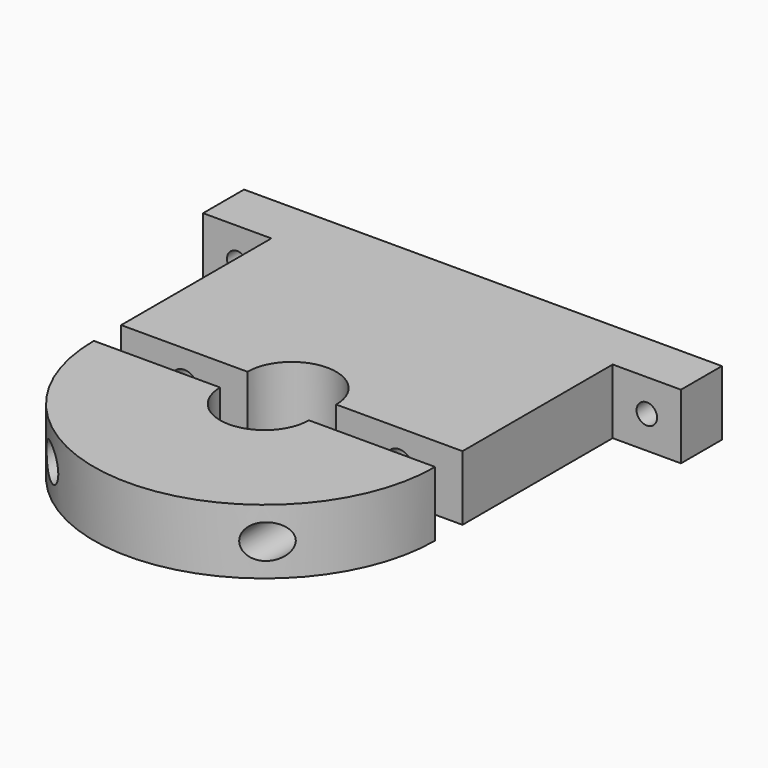
from build123d import *

# Parameters (mm, degrees)
F1_DEPTH  = 19
F2_R      = 4
F3_DEPTH  = 13
F4_R      = 3
F5_DEPTH  = 25
F6_R      = 3
F7_DEPTH  = 42
F9_R      = 5
F10_DEPTH = 25


with BuildPart() as f1:
    # F0 (on Top) → F1 (new body)
    with BuildSketch(Plane.XY):
        with BuildLine():
            ThreePointArc((-13, 0), (0, 13), (13, 0))
            Line((13, 0), (50, 0))
            Line((50, 0), (50, 55))
            Line((50, 55), (70, 55))
            Line((70, 55), (70, 70))
            Line((70, 70), (-70, 70))
            Line((-70, 70), (-70, 55))
            Line((-70, 55), (-50, 55))
            Line((-50, 55), (-50, 0))
            Line((-50, 0), (-13, 0))
        make_face()
        with BuildLine():
            Line((-13, -10), (-50, -10))
            ThreePointArc((-50, -10), (0, -60), (50, -10))
            Line((50, -10), (13, -10))
            ThreePointArc((13, -10), (0, -23), (-13, -10))
        make_face()
    extrude(amount=F1_DEPTH)

    # F2 (on face) → F3 (cut)
    with BuildSketch(Plane.XZ):
        with Locations((-31.5, 9.5)):
            Circle(F2_R)
        with Locations((31.5, 9.5)):
            Circle(F2_R)
    extrude(amount=-F3_DEPTH, mode=Mode.SUBTRACT)

    # F4 (on face) → F5 (cut)
    with BuildSketch(Plane.XZ.offset(-55)):
        with Locations((-60, 9.5)):
            Circle(F4_R)
        with Locations((60, 9.5)):
            Circle(F4_R)
    extrude(amount=-F5_DEPTH, mode=Mode.SUBTRACT)

    # F6 (on face) → F7 (cut)
    with BuildSketch(Plane(origin=(0, -10, 0), x_dir=(-1, 0, 0), z_dir=(0, 1, 0))):
        with Locations((-31.5, 9.5)):
            Circle(F6_R)
        with Locations((31.5, 9.5)):
            Circle(F6_R)
    extrude(amount=-F7_DEPTH, mode=Mode.SUBTRACT)

    # F9 (on offset) → F10 (cut)
    with BuildSketch(Plane.XZ.offset(30)):
        with Locations((-31.5, 9.5)):
            Circle(F9_R)
        with Locations((31.5, 9.5)):
            Circle(F9_R)
    extrude(amount=F10_DEPTH, mode=Mode.SUBTRACT)


solid = f1.part
